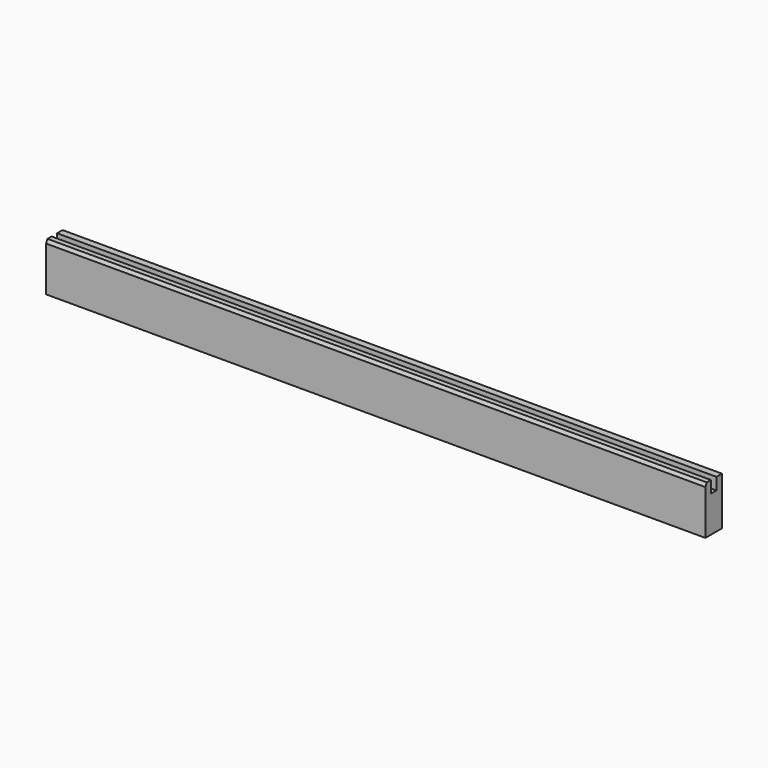
from build123d import *

# Parameters (mm, degrees)
F0_W     = 608.0125
F0_H     = 44.45
F1_DEPTH = 19.05
F2_W     = 6.35
F2_H     = 11.1125
F3_DEPTH = 608.0135
F4_SIZE2 = 3.175
F4_SIZE  = 1.5875


with BuildPart() as f1:
    # F0 (on Front) → F1 (new body)
    with BuildSketch(Plane.XZ):
        Rectangle(F0_W, F0_H)
    extrude(amount=F1_DEPTH)

    # F2 (on face) → F3 (cut, through all)
    with BuildSketch(Plane(origin=(-304.00625, 0, 0), x_dir=(0, -1, 0), z_dir=(-1, 0, 0))):
        with Locations((9.525, 16.66875)):
            Rectangle(F2_W, F2_H)
    extrude(amount=-F3_DEPTH, mode=Mode.SUBTRACT)

    # F4
    f4_edges = [f1.edges().sort_by_distance(p)[0] for p in [
        (0, -19.05, 22.225),
    ]]
    chamfer(f4_edges, length=F4_SIZE, length2=F4_SIZE2)


solid = f1.part
